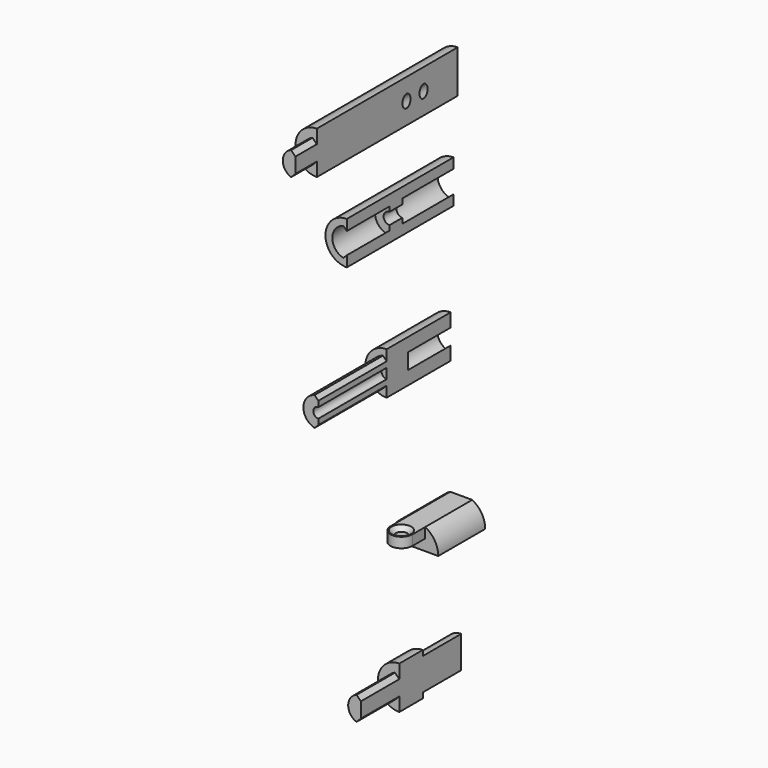
from build123d import *

# Parameters (mm, degrees)
F1_DEPTH      = 9
F3_DEPTH      = 2
F4_W          = 4.1231056256
F4_H          = 1.9
F5_DEPTH      = 3
F6_W          = 2.0615528128
F6_H          = 1.9
F8_R          = 1.05
F9_DEPTH      = 2
F9_DEPTH_BACK = 25
F11_DEPTH     = 9
F13_DEPTH     = 5.5
F15_DEPTH     = 9
F17_DEPTH     = 10
F19_DEPTH     = 5
F21_DEPTH     = 16
F23_DEPTH     = 12
F25_DEPTH     = 3
F27_DEPTH     = 10
F29_DEPTH     = 33
F31_DEPTH     = 5
F32_SIZE      = 0.8
F35_R         = 0.95
F36_DEPTH     = 12.5


with BuildPart() as f1:
    # F0 (on Front) → F1 (new body)
    with BuildSketch(Plane.XZ):
        with BuildLine():
            Line((2.0615528128, 4), (0, 4))
            Line((0, 4), (-2.0615528128, 4))
            ThreePointArc((-2.0615528128, 4), (-3.8423292192, 2.3423292192), (-4.5, 0))
            Line((-4.5, 0), (-3.2, 0))
            ThreePointArc((-3.2, 0), (0, 3.2), (3.2, 0))
            Line((3.2, 0), (4.5, 0))
            ThreePointArc((4.5, 0), (3.8423292192, 2.3423292192), (2.0615528128, 4))
        make_face()
    extrude(amount=F1_DEPTH)

    # F2 (on face) → F3 (join)
    with BuildSketch(Plane.XZ.offset(9)):
        with BuildLine():
            ThreePointArc((-2.0615528128, 4), (-3.8423292192, 2.3423292192), (-4.5, 0))
            Line((-4.5, 0), (4.5, 0))
            ThreePointArc((4.5, 0), (3.8423292192, 2.3423292192), (2.0615528128, 4))
            Line((2.0615528128, 4), (-2.0615528128, 4))
        make_face()
    extrude(amount=F3_DEPTH)

    # F4 (on face) → F5 (join)
    with BuildSketch(Plane.XZ.offset(11)):
        with Locations((0, 3.05)):
            Rectangle(F4_W, F4_H)
    extrude(amount=F5_DEPTH)

    # F6 (on face) → F7 (revolve)
    with BuildSketch(Plane.XZ.offset(14)):
        with Locations((-1.0307764064, 3.05)):
            Rectangle(F6_W, F6_H)
    revolve(axis=Axis((0, -14, 3.05), (0, 0, 1)))

    # F8 (on face) → F9 (cut, two sides)
    with BuildSketch(Plane.XY.offset(4)) as f9_sk:
        with Locations((0, -14)):
            Circle(F8_R)
    extrude(amount=-F9_DEPTH, mode=Mode.SUBTRACT)
    extrude(f9_sk.sketch, amount=F9_DEPTH_BACK, mode=Mode.SUBTRACT)

    # F32
    f32_edges = [f1.edges().sort_by_distance(p)[0] for p in [
        (-1.05, -14, 4),
    ]]
    chamfer(f32_edges, length=F32_SIZE)


with BuildPart() as f11:
    # F10 (on Front) → F11 (new body)
    with BuildSketch(Plane.XZ):
        with BuildLine():
            ThreePointArc((0, -18.768345058), (-3, -21.768345058), (0, -24.768345058))
            Line((0, -24.768345058), (0, -18.768345058))
        make_face()
    extrude(amount=F11_DEPTH)

    # F12 (on face) → F13 (join)
    with BuildSketch(Plane.XZ.offset(9)):
        with BuildLine():
            Line((0, -18.768345058), (0, -17.768345058))
            ThreePointArc((0, -17.768345058), (-4, -21.768345058), (0, -25.768345058))
            Line((0, -25.768345058), (0, -24.768345058))
            ThreePointArc((0, -24.768345058), (-3, -21.768345058), (0, -18.768345058))
        make_face()
        with BuildLine():
            Line((0, -24.768345058), (0, -18.768345058))
            ThreePointArc((0, -18.768345058), (-3, -21.768345058), (0, -24.768345058))
        make_face()
    extrude(amount=F13_DEPTH)

    # F14 (on face) → F15 (join)
    with BuildSketch(Plane.XZ.offset(14.5)):
        with BuildLine():
            Line((0, -23.193345058), (0, -21.768345058))
            Line((0, -21.768345058), (0, -20.343345058))
            Line((0, -20.343345058), (-0.8082420064, -19.5351030516))
            ThreePointArc((-0.8082420064, -19.5351030516), (-2.375, -21.768345058), (-0.8082420064, -24.0015870644))
            Line((-0.8082420064, -24.0015870644), (0, -23.193345058))
        make_face()
    extrude(amount=F15_DEPTH)


with BuildPart() as f17:
    # F16 (on Front) → F17 (new body)
    with BuildSketch(Plane.XZ):
        with BuildLine():
            Line((-1.9657567435, 28.1587075442), (-2.8348350173, 27.2896292704))
            ThreePointArc((-2.8348350173, 27.2896292704), (-4.4657567435, 29.6337075442), (-2.8348350173, 31.9777858181))
            Line((-2.8348350173, 31.9777858181), (-1.9657567435, 31.1087075442))
            Line((-1.9657567435, 31.1087075442), (-1.9657567435, 33.6337075442))
            ThreePointArc((-1.9657567435, 33.6337075442), (-5.9657567435, 29.6337075442), (-1.9657567435, 25.6337075442))
            Line((-1.9657567435, 25.6337075442), (-1.9657567435, 28.1587075442))
        make_face()
    extrude(amount=F17_DEPTH)

    # F18 (on face) → F19 (join)
    with BuildSketch(Plane.XZ.offset(10)):
        with BuildLine():
            Line((-2.8348350173, 27.2896292704), (-1.9657567435, 28.1587075442))
            Line((-1.9657567435, 28.1587075442), (-1.9657567435, 31.1087075442))
            Line((-1.9657567435, 31.1087075442), (-2.8348350173, 31.9777858181))
            ThreePointArc((-2.8348350173, 31.9777858181), (-4.4657567435, 29.6337075442), (-2.8348350173, 27.2896292704))
        make_face()
        with BuildLine():
            Line((-1.9657567435, 25.6337075442), (-1.9657567435, 28.1587075442))
            Line((-1.9657567435, 28.1587075442), (-2.8348350173, 27.2896292704))
            ThreePointArc((-2.8348350173, 27.2896292704), (-4.4657567435, 29.6337075442), (-2.8348350173, 31.9777858181))
            Line((-2.8348350173, 31.9777858181), (-1.9657567435, 31.1087075442))
            Line((-1.9657567435, 31.1087075442), (-1.9657567435, 33.6337075442))
            ThreePointArc((-1.9657567435, 33.6337075442), (-5.9657567435, 29.6337075442), (-1.9657567435, 25.6337075442))
        make_face()
    extrude(amount=F19_DEPTH)

    # F20 (on face) → F21 (join)
    with BuildSketch(Plane.XZ.offset(15)):
        with BuildLine():
            Line((-1.9657567435, 31.6337075442), (-2.6745574926, 32.3425082933))
            ThreePointArc((-2.6745574926, 32.3425082933), (-4.7657567435, 29.6337075442), (-2.6745574926, 26.9249067951))
            Line((-2.6745574926, 26.9249067951), (-1.9657567435, 27.6337075442))
            Line((-1.9657567435, 27.6337075442), (-1.9657567435, 28.6837075442))
            ThreePointArc((-1.9657567435, 28.6837075442), (-2.9157567435, 29.6337075442), (-1.9657567435, 30.5837075442))
            Line((-1.9657567435, 30.5837075442), (-1.9657567435, 31.6337075442))
        make_face()
    extrude(amount=F21_DEPTH)


with BuildPart() as f23:
    # F22 (on Front) → F23 (new body)
    with BuildSketch(Plane.XZ):
        with BuildLine():
            Line((-1.436933299, 53.2605685294), (-2.2301641581, 52.4673376703))
            ThreePointArc((-2.2301641581, 52.4673376703), (-4.436933299, 55.3605685294), (-2.2301641581, 58.2537993885))
            Line((-2.2301641581, 58.2537993885), (-1.436933299, 57.4605685294))
            Line((-1.436933299, 57.4605685294), (-1.436933299, 59.3605685294))
            ThreePointArc((-1.436933299, 59.3605685294), (-5.436933299, 55.3605685294), (-1.436933299, 51.3605685294))
            Line((-1.436933299, 51.3605685294), (-1.436933299, 53.2605685294))
        make_face()
    extrude(amount=F23_DEPTH)

    # F24 (on face) → F25 (join)
    with BuildSketch(Plane.XZ.offset(12)):
        with BuildLine():
            Line((-2.2301641581, 52.4673376703), (-1.436933299, 53.2605685294))
            Line((-1.436933299, 53.2605685294), (-1.436933299, 54.2605685294))
            ThreePointArc((-1.436933299, 54.2605685294), (-2.536933299, 55.3605685294), (-1.436933299, 56.4605685294))
            Line((-1.436933299, 56.4605685294), (-1.436933299, 57.4605685294))
            Line((-1.436933299, 57.4605685294), (-2.2301641581, 58.2537993885))
            ThreePointArc((-2.2301641581, 58.2537993885), (-4.436933299, 55.3605685294), (-2.2301641581, 52.4673376703))
        make_face()
        with BuildLine():
            Line((-1.436933299, 51.3605685294), (-1.436933299, 53.2605685294))
            Line((-1.436933299, 53.2605685294), (-2.2301641581, 52.4673376703))
            ThreePointArc((-2.2301641581, 52.4673376703), (-4.436933299, 55.3605685294), (-2.2301641581, 58.2537993885))
            Line((-2.2301641581, 58.2537993885), (-1.436933299, 57.4605685294))
            Line((-1.436933299, 57.4605685294), (-1.436933299, 59.3605685294))
            ThreePointArc((-1.436933299, 59.3605685294), (-5.436933299, 55.3605685294), (-1.436933299, 51.3605685294))
        make_face()
    extrude(amount=F25_DEPTH)

    # F26 (on face) → F27 (join)
    with BuildSketch(Plane.XZ.offset(15)):
        with BuildLine():
            Line((-2.0715739323, 57.9952091627), (-1.436933299, 57.3605685294))
            Line((-1.436933299, 57.3605685294), (-1.436933299, 59.3605685294))
            ThreePointArc((-1.436933299, 59.3605685294), (-5.436933299, 55.3605685294), (-1.436933299, 51.3605685294))
            Line((-1.436933299, 51.3605685294), (-1.436933299, 53.3605685294))
            Line((-1.436933299, 53.3605685294), (-2.0715739323, 52.7259278961))
            ThreePointArc((-2.0715739323, 52.7259278961), (-4.146933299, 55.3605685294), (-2.0715739323, 57.9952091627))
        make_face()
    extrude(amount=F27_DEPTH)


with BuildPart() as f29:
    # F28 (on Front) → F29 (new body)
    with BuildSketch(Plane.XZ):
        with BuildLine():
            Line((-0.6543450763, 72.3321891785), (-0.6543450763, 73.7571891785))
            Line((-0.6543450763, 73.7571891785), (-0.6543450763, 75.1821891785))
            Line((-0.6543450763, 75.1821891785), (-1.4625870826, 75.9904311849))
            ThreePointArc((-1.4625870826, 75.9904311849), (-3.0293450763, 73.7571891785), (-1.4625870826, 71.5239471721))
            Line((-1.4625870826, 71.5239471721), (-0.6543450763, 72.3321891785))
        make_face()
        with BuildLine():
            Line((-0.6543450763, 69.7571891785), (-0.6543450763, 72.3321891785))
            Line((-0.6543450763, 72.3321891785), (-1.4625870826, 71.5239471721))
            ThreePointArc((-1.4625870826, 71.5239471721), (-3.0293450763, 73.7571891785), (-1.4625870826, 75.9904311849))
            Line((-1.4625870826, 75.9904311849), (-0.6543450763, 75.1821891785))
            Line((-0.6543450763, 75.1821891785), (-0.6543450763, 77.7571891785))
            ThreePointArc((-0.6543450763, 77.7571891785), (-4.6543450763, 73.7571891785), (-0.6543450763, 69.7571891785))
        make_face()
    extrude(amount=F29_DEPTH)

    # F30 (on face) → F31 (join)
    with BuildSketch(Plane.XZ.offset(33)):
        with BuildLine():
            ThreePointArc((-1.4625870826, 75.9904311849), (-3.0293450763, 73.7571891785), (-1.4625870826, 71.5239471721))
            Line((-1.4625870826, 71.5239471721), (-0.6543450763, 72.3321891785))
            Line((-0.6543450763, 72.3321891785), (-0.6543450763, 75.1821891785))
            Line((-0.6543450763, 75.1821891785), (-1.4625870826, 75.9904311849))
        make_face()
    extrude(amount=F31_DEPTH)

    # F35 (on line) → F36 (cut, symmetric)
    with BuildSketch(Plane(origin=(35.210135929, 0, 27.0176875487), x_dir=(0, -1, 0), z_dir=(-0.7933533403, 0, -0.608761429))):
        with Locations((8, 58.9138524489)):
            Circle(F35_R)
        with Locations((12, 58.9138524489)):
            Circle(F35_R)
    extrude(amount=F36_DEPTH, both=True, mode=Mode.SUBTRACT)


solid = Compound([f1.part, f11.part, f17.part, f23.part, f29.part])
